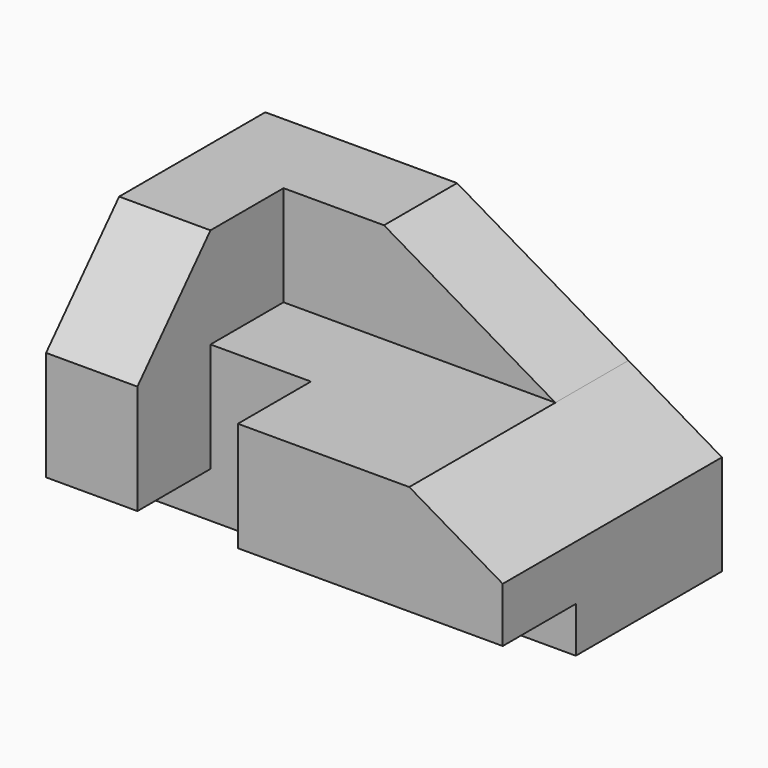
from build123d import *

# Parameters (mm, degrees)
F1_DEPTH = 30
F2_DEPTH = 10
F3_DEPTH = 20
F5_DEPTH = 10.001


with BuildPart() as f1:
    # F0 (on Front) → F1 (new body)
    with BuildSketch(Plane.XZ):
        Polygon((0, 28), (0, 5), (10, 5), (10, 17), (10, 28), align=None)
        Polygon((0, 5), (0, 0), (50, 0), (50, 5), (21, 5), (21, 17), (10, 17), (10, 5), align=None)
        Polygon((21, 5), (50, 5), (50, 11), (39.764706, 17), (21, 17), align=None)
        Polygon((21, 28), (10, 28), (10, 17), (21, 17), (39.764706, 17), align=None)
    extrude(amount=-F1_DEPTH)

    # F0 (on Front) → F2 (cut)
    with BuildSketch(Plane.XZ):
        Polygon((0, 5), (0, 0), (50, 0), (50, 5), (21, 5), (21, 17), (10, 17), (10, 5), align=None)
    extrude(amount=-F2_DEPTH, mode=Mode.SUBTRACT)

    # F0 (on Front) → F3 (cut)
    with BuildSketch(Plane.XZ):
        Polygon((21, 28), (10, 28), (10, 17), (21, 17), (39.764706, 17), align=None)
    extrude(amount=-F3_DEPTH, mode=Mode.SUBTRACT)

    # F4 (on face) → F5 (cut, through all)
    with BuildSketch(Plane.YZ.offset(10)):
        Polygon((0, 17), (10, 28), (0, 28), align=None)
    extrude(amount=-F5_DEPTH, mode=Mode.SUBTRACT)


solid = f1.part
